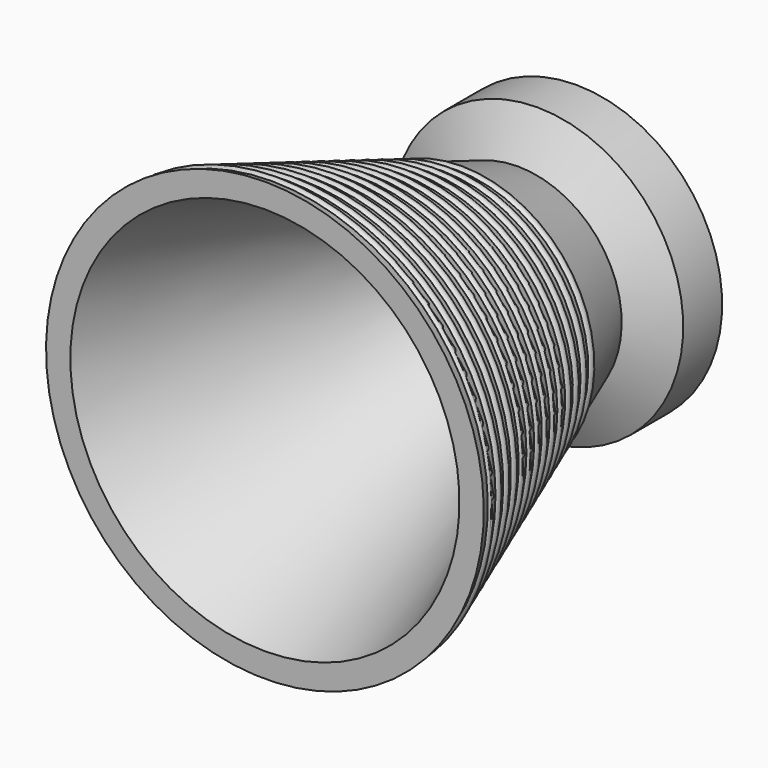
from build123d import *

# Parameters (mm, degrees)
F4_D = 4.4


with BuildPart() as f2:
    # F0 (on Right) → F2 (revolve)
    with BuildSketch(Plane.YZ):
        with BuildLine():
            Line((0, 0), (0, 19.05))
            Line((0, 19.05), (-2.54, 19.05))
            Line((-2.54, 19.05), (-5.08, 19.05))
            Line((-5.08, 19.05), (-6.35, 19.05))
            Line((-6.35, 19.05), (-9.525, 13.550738686))
            Line((-9.525, 13.550738686), (-18.3921301031, 16.7781101069))
            ThreePointArc((-18.3921301031, 16.7781101069), (-18.8099473121, 17.3748149211), (-19.5135683245, 17.186280239))
            Line((-19.5135683245, 17.186280239), (-20.7069779529, 17.620645821))
            ThreePointArc((-20.7069779529, 17.620645821), (-21.1247951619, 18.2173506352), (-21.8284161743, 18.0288159532))
            Line((-21.8284161743, 18.0288159532), (-23.0218258027, 18.4631815352))
            ThreePointArc((-23.0218258027, 18.4631815352), (-23.4396430116, 19.0598863494), (-24.143264024, 18.8713516674))
            Line((-24.143264024, 18.8713516674), (-25.3366736524, 19.3057172494))
            ThreePointArc((-25.3366736524, 19.3057172494), (-25.7544908614, 19.9024220636), (-26.4581118738, 19.7138873815))
            Line((-26.4581118738, 19.7138873815), (-27.6515215022, 20.1482529636))
            ThreePointArc((-27.6515215022, 20.1482529636), (-28.0693387112, 20.7449577778), (-28.7729597236, 20.5564230957))
            Line((-28.7729597236, 20.5564230957), (-29.966369352, 20.9907886777))
            ThreePointArc((-29.966369352, 20.9907886777), (-30.384186561, 21.5874934919), (-31.0878075734, 21.3989588099))
            Line((-31.0878075734, 21.3989588099), (-32.2812172018, 21.8333243919))
            ThreePointArc((-32.2812172018, 21.8333243919), (-32.6990344108, 22.4300292061), (-33.4026554232, 22.2414945241))
            Line((-33.4026554232, 22.2414945241), (-34.5960650515, 22.6758601061))
            ThreePointArc((-34.5960650515, 22.6758601061), (-35.0138822605, 23.2725649203), (-35.7175032729, 23.0840302382))
            Line((-35.7175032729, 23.0840302382), (-36.9109129013, 23.5183958203))
            ThreePointArc((-36.9109129013, 23.5183958203), (-37.3287301103, 24.1151006345), (-38.0323511227, 23.9265659524))
            Line((-38.0323511227, 23.9265659524), (-39.2257607511, 24.3609315344))
            ThreePointArc((-39.2257607511, 24.3609315344), (-39.6435779601, 24.9576363486), (-40.3471989725, 24.7691016666))
            Line((-40.3471989725, 24.7691016666), (-41.5406086009, 25.2034672486))
            ThreePointArc((-41.5406086009, 25.2034672486), (-41.9584258099, 25.8001720628), (-42.6620468223, 25.6116373808))
            Line((-42.6620468223, 25.6116373808), (-43.8554564507, 26.0460029628))
            ThreePointArc((-43.8554564507, 26.0460029628), (-44.2732736597, 26.642707777), (-44.976894672, 26.4541730949))
            Line((-44.976894672, 26.4541730949), (-46.1703043004, 26.888538677))
            ThreePointArc((-46.1703043004, 26.888538677), (-46.5881215094, 27.4852434912), (-47.2917425218, 27.2967088091))
            Line((-47.2917425218, 27.2967088091), (-48.4851521502, 27.7310743911))
            ThreePointArc((-48.4851521502, 27.7310743911), (-48.9029693592, 28.3277792053), (-49.6065903716, 28.1392445233))
            Line((-49.6065903716, 28.1392445233), (-50.8, 28.5736101053))
            Line((-50.8, 28.5736101053), (-50.8, 25.3986101053))
            Line((-50.8, 25.3986101053), (-9.525, 10.375738686))
            Line((-9.525, 10.375738686), (-9.525, 0))
            Line((-9.525, 0), (0, 0))
        make_face()
    revolve(axis=Axis((0, -28.8543272763, 0), (0, 1, 0)))

    # F4 (through all)
    with Locations(Plane(origin=(0, 0, 0), x_dir=(-1, 0, 0), z_dir=(0, 1, 0))):
        with Locations((0, 0)):
            Hole(F4_D / 2)


solid = f2.part
